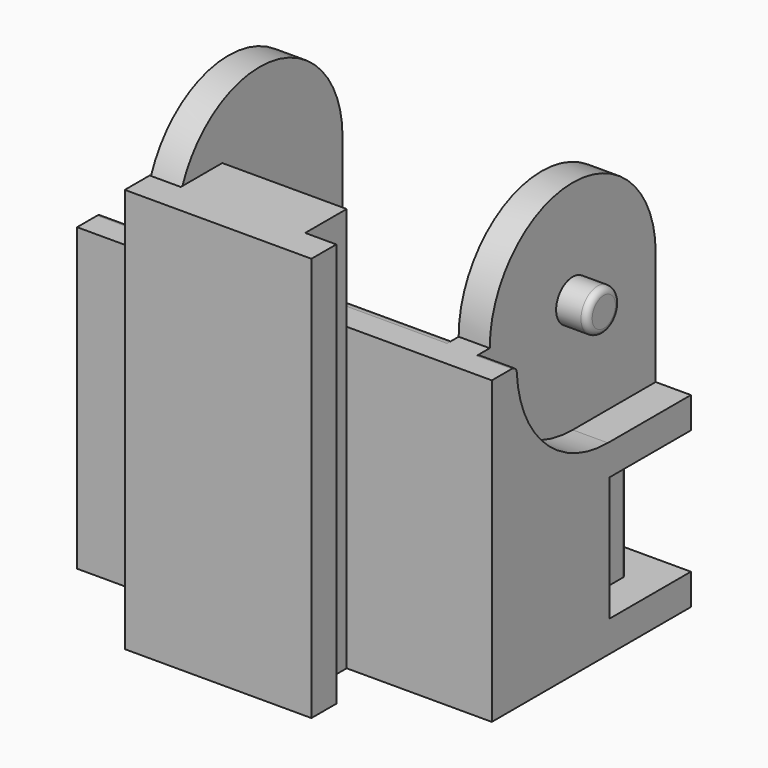
from build123d import *

# Parameters (mm, degrees)
PAD_DEPTH       = 19.5
SKETCH001_W     = 13.6
SKETCH001_H     = 19.5
POCKET_DEPTH    = 10
POCKET001_DEPTH = 20
POCKET002_DEPTH = 1.7
POCKET003_DEPTH = 1.7
SKETCH005_R     = 1
PAD001_DEPTH    = 1.5
FILLET_R        = 0.3
SKETCH006_R     = 1
PAD002_DEPTH    = 1.5
FILLET001_R     = 0.3
SKETCH007_W     = 1.7
SKETCH007_H     = 6
POCKET004_DEPTH = 20
SKETCH008_W     = 1.7
SKETCH008_H     = 6
POCKET005_DEPTH = 20
SKETCH009_W     = 1.5
SKETCH009_H     = 6
POCKET006_DEPTH = 1.7
FILLET002_R     = 0.3
FILLET003_R     = 0.3
SKETCH010_W     = 1.5
SKETCH010_H     = 6
POCKET007_DEPTH = 1.7
FILLET004_R     = 0.3
FILLET005_R     = 0.3
FILLET006_R     = 0.3
FILLET007_R     = 0.3
FILLET008_R     = 0.7


with BuildPart() as part:
    # Sketch → Pad (new body)
    with BuildSketch(Plane.XY):
        Polygon((-3, 0), (-3, -2.5), (-4.5, -2.5), (-4.5, -4), (4.5, -4), (4.5, -2.5), (3, -2.5), (3, 0), (10, 0), (10, 12), (-10, 12), (-10, 0), align=None)
    extrude(amount=PAD_DEPTH)

    # Sketch001 (on Face10 of Pad) → Pocket (cut)
    with BuildSketch(Plane(origin=(0, 12, 0), x_dir=(-1, 0, 0), z_dir=(0, 1, 0))):
        with Locations((0, 9.75)):
            Rectangle(SKETCH001_W, SKETCH001_H)
    extrude(amount=-POCKET_DEPTH, mode=Mode.SUBTRACT)

    # Sketch002 (on Face6 of Pocket) → Pocket001 (cut)
    with BuildSketch(Plane(origin=(-10, 0, 0), x_dir=(0, -1, 0), z_dir=(-1, 0, 0))):
        with BuildLine():
            ThreePointArc((-2, 14.500024), (-7.000024, 19.5), (-12, 14.499976))
            Line((-12, 14.499976), (-12, 20.5))
            Line((-12, 20.5), (0, 20.5))
            Line((0, 20.5), (0, 14.500024))
            Line((0, 14.500024), (-2, 14.500024))
        make_face()
    extrude(amount=-POCKET001_DEPTH, mode=Mode.SUBTRACT)

    # Sketch003 (on Face8 of Pocket001) → Pocket002 (cut)
    with BuildSketch(Plane(origin=(-10, 0, 0), x_dir=(0, -1, 0), z_dir=(-1, 0, 0))):
        with BuildLine():
            ThreePointArc((-6.999976, 9), (-3.110929, 18.389104), (-12.5, 14.499976))
            Line((-12.5, 14.499976), (-12.5, 9))
            Line((-12.5, 9), (-6.999976, 9))
        make_face()
    extrude(amount=-POCKET002_DEPTH, mode=Mode.SUBTRACT)

    # Sketch004 (on Face14 of Pocket002) → Pocket003 (cut)
    with BuildSketch(Plane.YZ.offset(10)):
        with BuildLine():
            ThreePointArc((12.5, 14.499976), (3.110929, 18.389104), (6.999976, 9))
            Line((12.5, 9), (6.999976, 9))
            Line((12.5, 14.499976), (12.5, 9))
        make_face()
    extrude(amount=-POCKET003_DEPTH, mode=Mode.SUBTRACT)

    # Sketch005 (on Face25 of Pocket003) → Pad001 (join)
    with BuildSketch(Plane.YZ.offset(8.3)):
        with Locations((7, 14.5)):
            Circle(SKETCH005_R)
    extrude(amount=PAD001_DEPTH)

    # Fillet
    fillet_edges = [part.edges().sort_by_distance(p)[0] for p in [
        (9.8, 6, 14.5),
    ]]
    fillet(fillet_edges, radius=FILLET_R)

    # Sketch006 (on Face13 of Fillet) → Pad002 (join)
    with BuildSketch(Plane(origin=(-8.3, 0, 0), x_dir=(0, -1, 0), z_dir=(-1, 0, 0))):
        with Locations((-7, 14.5)):
            Circle(SKETCH006_R)
    extrude(amount=PAD002_DEPTH)

    # Fillet001
    fillet001_edges = [part.edges().sort_by_distance(p)[0] for p in [
        (-9.8, 8, 14.5),
    ]]
    fillet(fillet001_edges, radius=FILLET001_R)

    # Sketch007 (on Face18 of Fillet001) → Pocket004 (cut)
    with BuildSketch(Plane.YZ.offset(10)):
        with Locations((11.15, 4.5)):
            Rectangle(SKETCH007_W, SKETCH007_H)
    extrude(amount=-POCKET004_DEPTH, mode=Mode.SUBTRACT)

    # Sketch008 (on Face18 of Pocket004) → Pocket005 (cut)
    with BuildSketch(Plane.YZ.offset(10)):
        with Locations((7.95, 4.5)):
            Rectangle(SKETCH008_W, SKETCH008_H)
    extrude(amount=-POCKET005_DEPTH, mode=Mode.SUBTRACT)

    # Sketch009 (on Face18 of Pocket005) → Pocket006 (cut)
    with BuildSketch(Plane.YZ.offset(10)):
        with Locations((9.55, 4.5)):
            Rectangle(SKETCH009_W, SKETCH009_H)
    extrude(amount=-POCKET006_DEPTH, mode=Mode.SUBTRACT)

    # Fillet002
    fillet002_edges = [part.edges().sort_by_distance(p)[0] for p in [
        (8.3, 10.3, 4.5),
    ]]
    fillet(fillet002_edges, radius=FILLET002_R)

    # Fillet003
    fillet003_edges = [part.edges().sort_by_distance(p)[0] for p in [
        (8.3, 8.8, 4.5),
    ]]
    fillet(fillet003_edges, radius=FILLET003_R)

    # Sketch010 (on Face26 of Fillet003) → Pocket007 (cut)
    with BuildSketch(Plane(origin=(-10, 0, 0), x_dir=(0, -1, 0), z_dir=(-1, 0, 0))):
        with Locations((-9.55, 4.5)):
            Rectangle(SKETCH010_W, SKETCH010_H)
    extrude(amount=-POCKET007_DEPTH, mode=Mode.SUBTRACT)

    # Fillet004
    fillet004_edges = [part.edges().sort_by_distance(p)[0] for p in [
        (-8.3, 10.3, 4.5),
    ]]
    fillet(fillet004_edges, radius=FILLET004_R)

    # Fillet005
    fillet005_edges = [part.edges().sort_by_distance(p)[0] for p in [
        (-8.3, 8.8, 4.5),
    ]]
    fillet(fillet005_edges, radius=FILLET005_R)

    # Fillet006
    fillet006_edges = [part.edges().sort_by_distance(p)[0] for p in [
        (-9.15, 1.5, 14.500024),
    ]]
    fillet(fillet006_edges, radius=FILLET006_R)

    # Fillet007
    fillet007_edges = [part.edges().sort_by_distance(p)[0] for p in [
        (9.15, 1.5, 14.500024),
    ]]
    fillet(fillet007_edges, radius=FILLET007_R)

    # Fillet008
    fillet008_edges = [part.edges().sort_by_distance(p)[0] for p in [
        (0, 2, 14.500024),
    ]]
    fillet(fillet008_edges, radius=FILLET008_R)


solid = part.part
